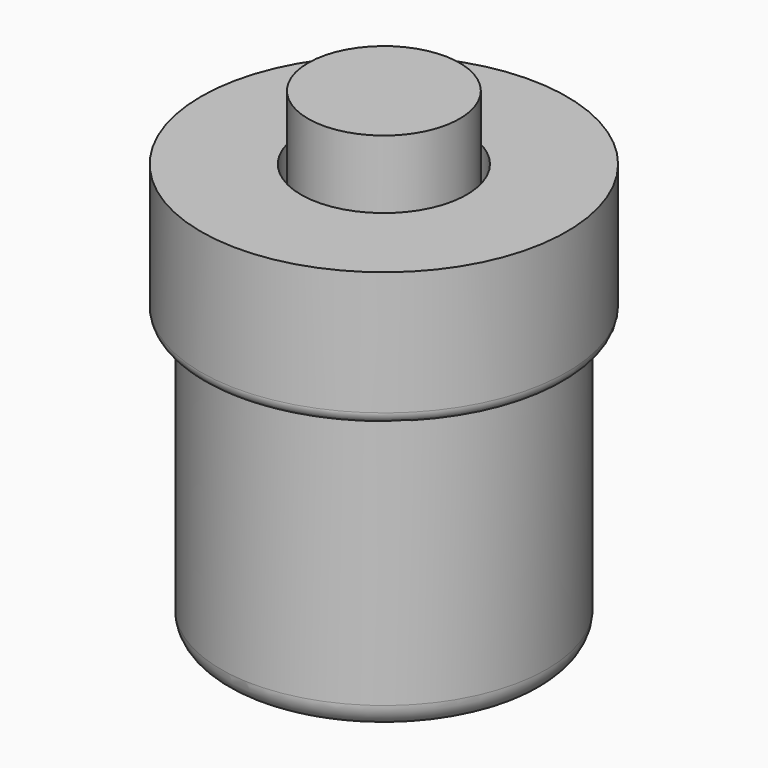
from build123d import *

# Parameters (mm, degrees)
F2_R     = 0.25
F3_R     = 0.5
F4_W     = 1.5875
F4_H     = 10.0678
F6_DEPTH = 2


with BuildPart() as f1:
    # F0 (on Front) → F1 (revolve)
    with BuildSketch(Plane.XZ):
        Polygon((-3.4163, 0), (0, 0), (0, 2), (-1.7375, 2), (-1.7375, 8.7154), (-3.8354, 8.7154), (-3.8354, 5.869), (-3.4163, 5.869), align=None)
    revolve(axis=Axis((0, 0, 1), (0, 0, -1)))

    # F2
    f2_edges = [f1.edges().sort_by_distance(p)[0] for p in [
        (3.8354, 0, 5.869),
    ]]
    fillet(f2_edges, radius=F2_R)

    # F3
    f3_edges = [f1.edges().sort_by_distance(p)[0] for p in [
        (3.4163, 0, 0),
    ]]
    fillet(f3_edges, radius=F3_R)

    # F4 (on Front) → F5 (revolve)
    with BuildSketch(Plane.XZ):
        with Locations((-0.79375, 5.0339)):
            Rectangle(F4_W, F4_H)
    revolve(axis=Axis((0, 0, 5.0339), (0, 0, 1)))

    # F6 (cut, through all): a face of the model
    f6_faces = [f1.faces().sort_by_distance(p)[0] for p in [
        (1.6883560787, 0, 2),
    ]]
    extrude(f6_faces, amount=-F6_DEPTH, mode=Mode.SUBTRACT)


solid = f1.part
